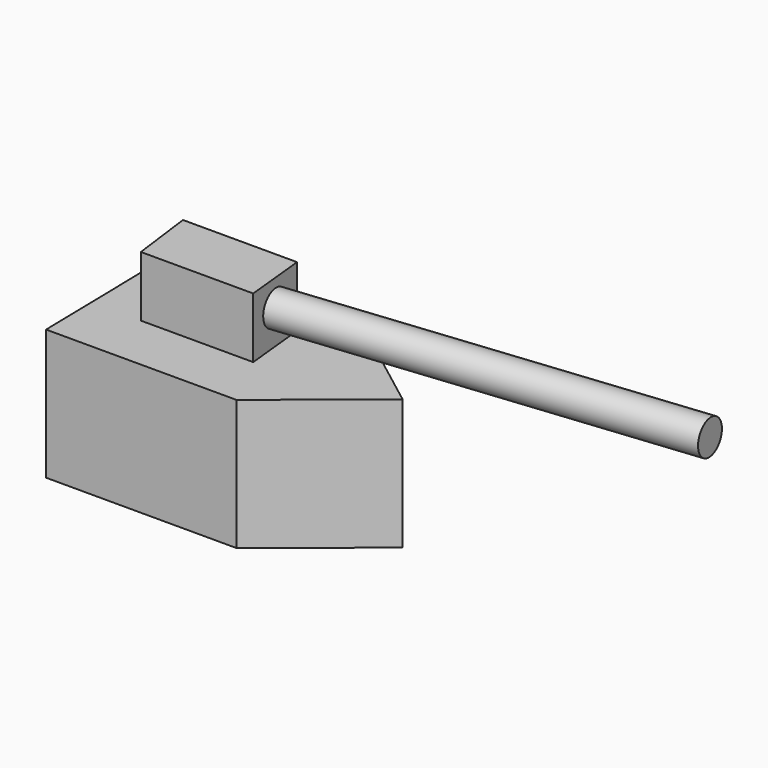
from build123d import *

# Parameters (mm, degrees)
F1_DEPTH = 41
F3_DEPTH = 19
F4_R     = 5.402873
F5_DEPTH = 127


with BuildPart() as f1:
    # F0 (on Top) → F1 (new body)
    with BuildSketch(Plane.XY):
        Polygon((-42.681199, 31.584967), (-41.684866, -18.23815), (18.126922, -18.23815), (49.872324, 7.42222), (18.126922, 31.584967), align=None)
    extrude(amount=F1_DEPTH)

    # F2 (on face) → F3 (join)
    with BuildSketch(Plane.XY.offset(41)):
        Polygon((6.816162, 19.731937), (-29.038044, 19.731937), (-26.485959, 0), (8.835195, 0), align=None)
    extrude(amount=F3_DEPTH)

    # F4 (on face) → F5 (join)
    with BuildSketch(Plane(origin=(8.743648, 0.894677, 0), x_dir=(-0.101792, 0.994806, 0), z_dir=(0.994806, 0.101792, 0))):
        with Locations((9.018134, 51.709723)):
            Circle(F4_R)
    extrude(amount=F5_DEPTH)


solid = f1.part
